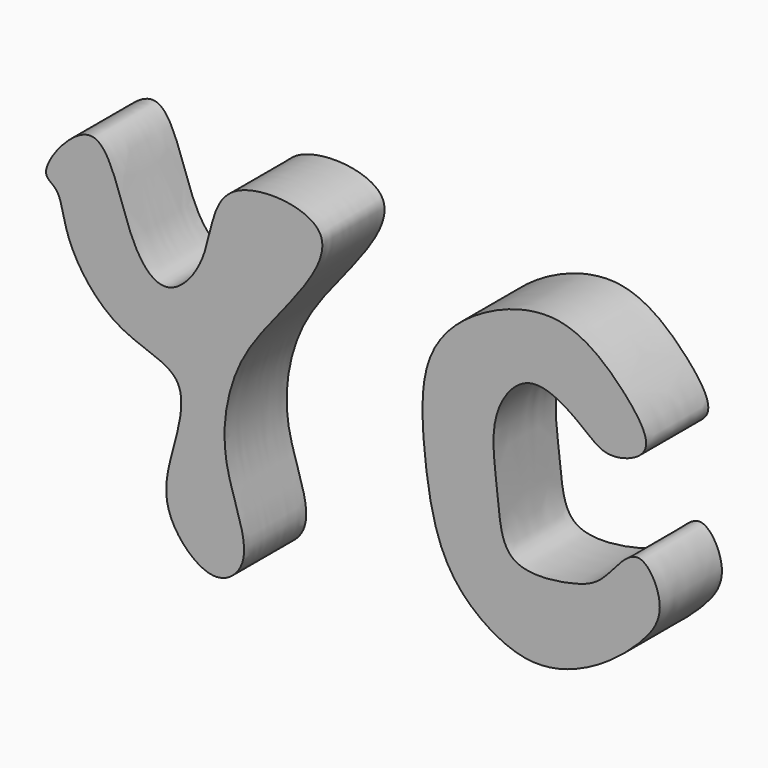
from build123d import *

# Parameters (mm, degrees)
F1_DEPTH = 25
F3_DEPTH = 25


with BuildPart() as f1:
    # F0 (on Front) → F1 (new body)
    with BuildSketch(Plane.XZ):
        with BuildLine():
            add(Edge.make_bspline(
                [(-137.9798054695, 52.4215400219), (-137.7948123679, 56.6320360499), (-119.3829353492, 79.83811605), (-112.4981449232, 40.9195758546), (-99.1118661374, 27.719325016), (-84.3915680013, 44.6044481634), (-84.9692781545, 72.069174403), (-35.9776913924, 68.6714746943), (-66.2603649901, 33.1489213242), (-78.4398967271, 15.9901573683), (-83.1863078774, -11.4765882359), (-69.7041959291, -36.0792205659), (-84.3825125836, -49.3413540488), (-102.3204241566, -31.4868818048), (-96.9953554342, -12.8570284006), (-91.0265376447, 10.4617196588), (-116.7138893145, 13.2751910522), (-132.4123189444, 34.7946162232), (-132.9919923343, 49.0715492998), (-138.0719389663, 50.3245552214), (-137.9798054695, 52.4215400219)],
                knots=[0, 0, 0, 0, 0.0560377289, 0.1214588937, 0.1696321983, 0.2207231516, 0.2807827082, 0.3460142971, 0.4159302332, 0.4768797971, 0.5399944892, 0.6025447062, 0.6460127391, 0.7003283342, 0.7552180159, 0.8088138961, 0.8649107443, 0.927996953, 0.9720911111, 1, 1, 1, 1], degree=3))
        make_face()
    extrude(amount=F1_DEPTH)


with BuildPart() as f3:
    # F2 (on Front) → F3 (new body)
    with BuildSketch(Plane.XZ):
        with BuildLine():
            add(Edge.make_bspline(
                [(48.0302907526, 50.1214936376), (42.2525373998, 56.4770330638), (27.7889943059, 68.5734680355), (-1.4546810148, 58.1844821315), (-17.9806878777, 39.8178428585), (-16.7048279341, 11.8180485442), (-12.4278977572, -13.1679330013), (-1.1137930157, -28.209875005), (17.9113245406, -38.4132267717), (38.5509500481, -31.6274455809), (54.0057291108, -19.0019750804), (62.3205542357, -7.0380053249), (52.5963038158, 10.5545797803), (41.8335932875, -5.2940550812), (33.3308932785, -9.4833431588), (8.5436639809, -13.038659135), (7.7041220301, 9.0641691118), (3.6792692338, 30.1098065912), (17.4272929634, 48.188818472), (35.0121628128, 36.3535127489), (42.2722317201, 29.0390554403), (59.6183739144, 35.2247221062), (52.5517463866, 45.147884037), (48.0302907526, 50.1214936376)],
                knots=[0, 0, 0, 0, 0.0559746433, 0.1148278699, 0.1684793877, 0.2263493154, 0.2824010767, 0.3298597007, 0.3794973903, 0.43007519, 0.480031097, 0.5211462924, 0.5610684668, 0.6020324087, 0.6393343042, 0.6887343472, 0.7355373438, 0.7884006085, 0.8344212798, 0.8811751018, 0.9172790755, 0.9561963187, 1, 1, 1, 1], degree=3))
        make_face()
    extrude(amount=F3_DEPTH)


solid = Compound([f1.part, f3.part])
